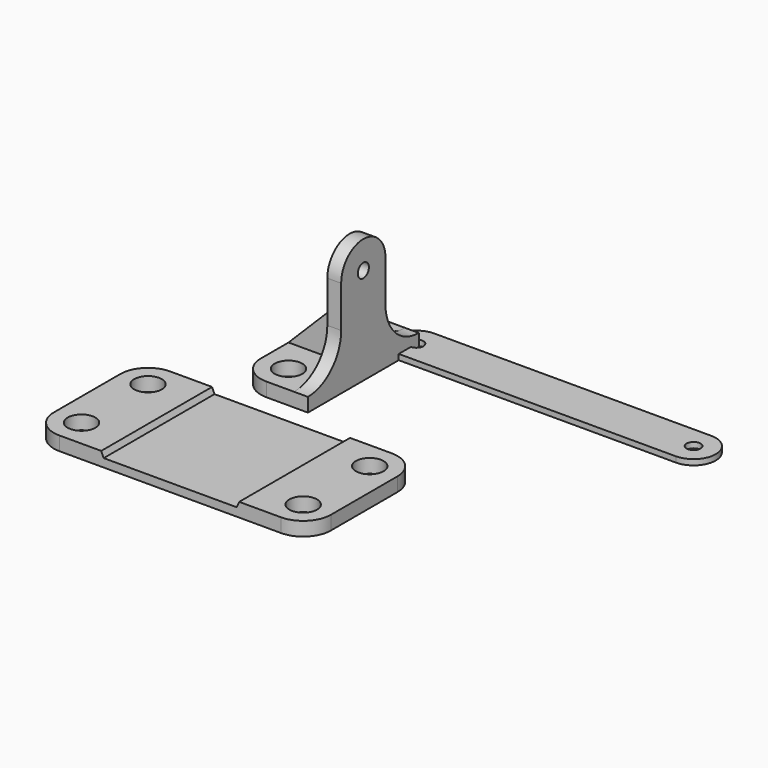
from build123d import *

# Parameters (mm, degrees)
SKETCH_R     = 5
PAD_DEPTH    = 5
POCKET_DEPTH = 50.001
SKETCH002_R  = 5
PAD001_DEPTH = 5
SKETCH003_R  = 2.5
PAD002_DEPTH = 5
SKETCH004_W  = 5
SKETCH004_H  = 20
PAD003_DEPTH = 20
CHAMFER_SIZE = 19.99
SKETCH005_R  = 2.5
PAD004_DEPTH = 2


with BuildPart() as base:
    # Sketch → Pad (new body)
    with BuildSketch(Plane.XY):
        with BuildLine():
            Line((-50, 15), (-50, -15))
            ThreePointArc((-50, -15), (-47.071068, -22.071068), (-40, -25))
            Line((-40, -25), (0, -25))
            Line((0, -25), (0, 25))
            Line((0, 25), (-40, 25))
            ThreePointArc((-40, 25), (-47.071068, 22.071068), (-50, 15))
        make_face()
        with Locations((-40, 15)):
            Circle(SKETCH_R, mode=Mode.SUBTRACT)
        with Locations((-40, -15)):
            Circle(SKETCH_R, mode=Mode.SUBTRACT)
    extrude(amount=PAD_DEPTH)

    # Sketch001 (on Face3 of Pad) → Pocket (cut, through all)
    with BuildSketch(Plane.XZ.offset(25)):
        Polygon((0, 3), (-24, 3), (-24.890457, 5), (0, 5), align=None)
    extrude(amount=-POCKET_DEPTH, mode=Mode.SUBTRACT)

    # Mirrored: Base across YZ


with BuildPart() as base_1:
    add(base.part)
    add(base.part.mirror(Plane.YZ))


with BuildPart() as bracket:
    # Sketch002 → Pad001 (new body)
    with BuildSketch(Plane.XY):
        with BuildLine():
            Line((0, 25), (-15, 25))
            ThreePointArc((-15, 25), (-22.071068, 22.071068), (-25, 15))
            Line((-25, 15), (-25, -15))
            ThreePointArc((-25, -15), (-22.071068, -22.071068), (-15, -25))
            Line((-15, -25), (0, -25))
            Line((0, -25), (0, 25))
        make_face()
        with Locations((-15, 15)):
            Circle(SKETCH002_R, mode=Mode.SUBTRACT)
        with Locations((-15, -15)):
            Circle(SKETCH002_R, mode=Mode.SUBTRACT)
    extrude(amount=PAD001_DEPTH)

    # Sketch003 (on Face6 of Pad001) → Pad002 (join)
    with BuildSketch(Plane.YZ):
        with BuildLine():
            Line((-25, 5), (25, 5))
            ThreePointArc((10, 20), (14.393398, 9.393398), (25, 5))
            Line((10, 20), (10, 35))
            ThreePointArc((10, 35), (0, 45), (-10, 35))
            Line((-10, 20), (-10, 35))
            ThreePointArc((-25, 5), (-14.393398, 9.393398), (-10, 20))
        make_face()
        with Locations((0, 35)):
            Circle(SKETCH003_R, mode=Mode.SUBTRACT)
    extrude(amount=-PAD002_DEPTH)

    # Sketch004 (on Face12 of Pad002) → Pad003 (join)
    with BuildSketch(Plane(origin=(-5, 0, 0), x_dir=(0, -1, 0), z_dir=(-1, 0, 0))):
        with Locations((0, 15)):
            Rectangle(SKETCH004_W, SKETCH004_H)
    extrude(amount=PAD003_DEPTH)

    # Chamfer
    chamfer_edges = [bracket.edges().sort_by_distance(p)[0] for p in [
        (-25, 0, 25),
    ]]
    chamfer(chamfer_edges, length=CHAMFER_SIZE)


with BuildPart() as bracket_1:
    # Body001 placement: moved
    add(bracket.part.moved(Location((0, 62.122, 0))))


with BuildPart() as link:
    # Sketch005 (on XY_Plane002 of Origin004) → Pad004 (new body)
    with BuildSketch(Plane.XY):
        with BuildLine():
            ThreePointArc((0, 8), (-8, 0), (0, -8))
            Line((0, -8), (100, -8))
            ThreePointArc((100, -8), (108, 0), (100, 8))
            Line((0, 8), (100, 8))
        make_face()
        Circle(SKETCH005_R, mode=Mode.SUBTRACT)
        with Locations((100, 0)):
            Circle(SKETCH005_R, mode=Mode.SUBTRACT)
    extrude(amount=PAD004_DEPTH)


with BuildPart() as link_1:
    # Body002 placement: moved
    add(link.part.moved(Location((0, 86.082, 0))))


solid = Compound([base_1.part, bracket_1.part, link_1.part])
